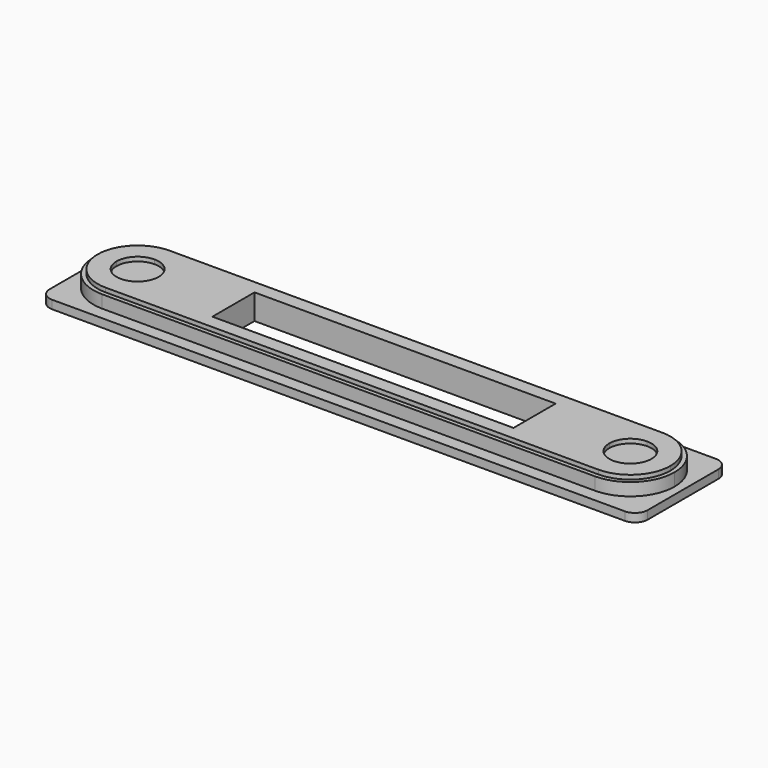
from build123d import *

# Parameters (mm, degrees)
F1_DEPTH = 2
F0_W     = 71.5
F0_H     = 12.5
F2_DEPTH = 6
F3_DEPTH = 5
F4_DEPTH = 5


with BuildPart() as f1:
    # F0 (on Top) → F1 (new body)
    with BuildSketch(Plane.XY):
        with BuildLine():
            Line((-71, 10.5), (-71, -10.5))
            ThreePointArc((-71, -10.5), (-70.1213203436, -12.6213203436), (-68, -13.5))
            Line((-68, -13.5), (68, -13.5))
            ThreePointArc((68, -13.5), (70.1213203436, -12.6213203436), (71, -10.5))
            Line((71, -10.5), (71, 10.5))
            ThreePointArc((71, 10.5), (70.1213203436, 12.6213203436), (68, 13.5))
            Line((68, 13.5), (-68, 13.5))
            ThreePointArc((-68, 13.5), (-70.1213203436, 12.6213203436), (-71, 10.5))
        make_face()
        with BuildLine():
            Line((58.5, -10.5), (-58.5, -10.5))
            ThreePointArc((-58.5, -10.5), (-65.9246212025, -7.4246212025), (-69, 0))
            ThreePointArc((-69, 0), (-65.9246212025, 7.4246212025), (-58.5, 10.5))
            Line((-58.5, 10.5), (58.5, 10.5))
            ThreePointArc((58.5, 10.5), (65.9246212025, 7.4246212025), (69, 0))
            ThreePointArc((69, 0), (65.9246212025, -7.4246212025), (58.5, -10.5))
        make_face(mode=Mode.SUBTRACT)
    extrude(amount=F1_DEPTH)



with BuildPart() as f2:
    # F0 (on Top) → F2 (new body)
    with BuildSketch(Plane.XY):
        with BuildLine():
            ThreePointArc((-68, 0), (-65.2175144213, -6.7175144213), (-58.5, -9.5))
            Line((-58.5, -9.5), (58.5, -9.5))
            ThreePointArc((58.5, -9.5), (65.2175144213, -6.7175144213), (68, 0))
            ThreePointArc((68, 0), (65.2175144213, 6.7175144213), (58.5, 9.5))
            Line((58.5, 9.5), (-58.5, 9.5))
            ThreePointArc((-58.5, 9.5), (-65.2175144213, 6.7175144213), (-68, 0))
        make_face()
        with BuildLine():
            ThreePointArc((-63.5, 0), (-62.0355339059, 3.5355339059), (-58.5, 5))
            ThreePointArc((-58.5, 5), (-54.9644660941, 3.5355339059), (-53.5, 0))
            ThreePointArc((-53.5, 0), (-54.9644660941, -3.5355339059), (-58.5, -5))
            ThreePointArc((-58.5, -5), (-62.0355339059, -3.5355339059), (-63.5, 0))
        make_face(mode=Mode.SUBTRACT)
        Rectangle(F0_W, F0_H, mode=Mode.SUBTRACT)
        with BuildLine():
            ThreePointArc((53.5, 0), (54.9644660941, 3.5355339059), (58.5, 5))
            ThreePointArc((58.5, 5), (62.0355339059, 3.5355339059), (63.5, 0))
            ThreePointArc((63.5, 0), (62.0355339059, -3.5355339059), (58.5, -5))
            ThreePointArc((58.5, -5), (54.9644660941, -3.5355339059), (53.5, 0))
        make_face(mode=Mode.SUBTRACT)
    extrude(amount=F2_DEPTH)


with BuildPart() as f1_1:
    add(f1.part)

    add(f2.part)  # F3 merges F2
    # F0 (on Top) → F3 (join)
    with BuildSketch(Plane.XY):
        with BuildLine():
            ThreePointArc((-69, 0), (-65.9246212025, -7.4246212025), (-58.5, -10.5))
            Line((-58.5, -10.5), (58.5, -10.5))
            ThreePointArc((58.5, -10.5), (65.9246212025, -7.4246212025), (69, 0))
            ThreePointArc((69, 0), (65.9246212025, 7.4246212025), (58.5, 10.5))
            Line((58.5, 10.5), (-58.5, 10.5))
            ThreePointArc((-58.5, 10.5), (-65.9246212025, 7.4246212025), (-69, 0))
        make_face()
        with BuildLine():
            Line((58.5, -9.5), (-58.5, -9.5))
            ThreePointArc((-58.5, -9.5), (-65.2175144213, -6.7175144213), (-68, 0))
            ThreePointArc((-68, 0), (-65.2175144213, 6.7175144213), (-58.5, 9.5))
            Line((-58.5, 9.5), (58.5, 9.5))
            ThreePointArc((58.5, 9.5), (65.2175144213, 6.7175144213), (68, 0))
            ThreePointArc((68, 0), (65.2175144213, -6.7175144213), (58.5, -9.5))
        make_face(mode=Mode.SUBTRACT)
    extrude(amount=F3_DEPTH)

    # F0 (on Top) → F4 (join)
    with BuildSketch(Plane.XY):
        with BuildLine():
            ThreePointArc((-53.5, 0), (-54.9644660941, 3.5355339059), (-58.5, 5))
            ThreePointArc((-58.5, 5), (-62.0355339059, 3.5355339059), (-63.5, 0))
            ThreePointArc((-63.5, 0), (-62.0355339059, -3.5355339059), (-58.5, -5))
            ThreePointArc((-58.5, -5), (-54.9644660941, -3.5355339059), (-53.5, 0))
        make_face()
        with BuildLine():
            ThreePointArc((63.5, 0), (62.0355339059, 3.5355339059), (58.5, 5))
            ThreePointArc((58.5, 5), (54.9644660941, 3.5355339059), (53.5, 0))
            ThreePointArc((53.5, 0), (54.9644660941, -3.5355339059), (58.5, -5))
            ThreePointArc((58.5, -5), (62.0355339059, -3.5355339059), (63.5, 0))
        make_face()
    extrude(amount=F4_DEPTH)


solid = f1_1.part
